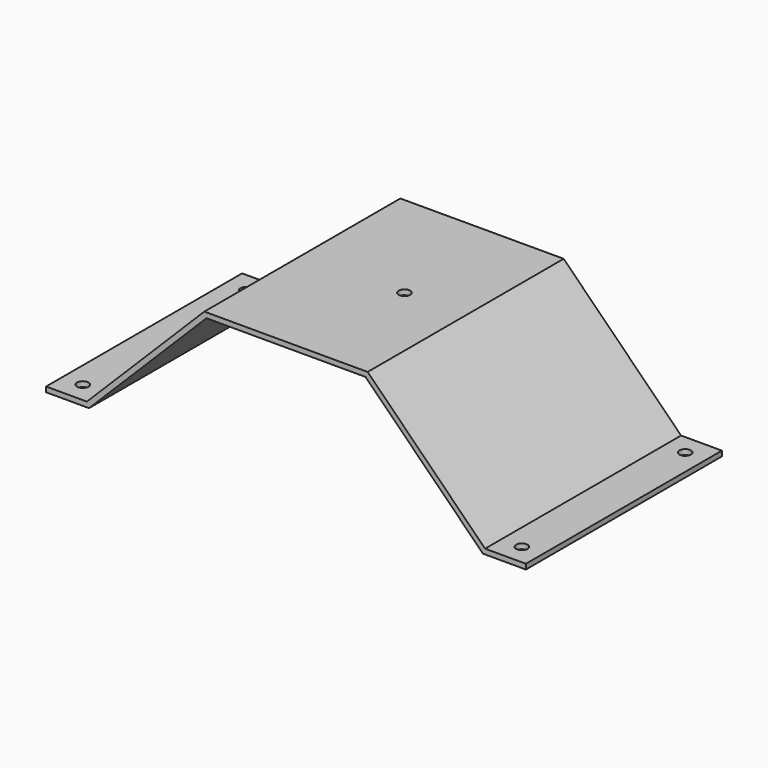
from build123d import *

# Parameters (mm, degrees)
F1_DEPTH = 152.4
F2_R     = 7.1374
F3_DEPTH = 6.351
F5_DEPTH = 152.401


with BuildPart() as f1:
    # F0 (on Front) → F1 (new body, symmetric)
    with BuildSketch(Plane.XZ):
        Polygon((-247.65, -146.05), (-298.45, -146.05), (-298.45, -152.4), (-245.019744, -152.4), (-98.969744, -6.35), (98.969744, -6.35), (245.019744, -152.4), (298.45, -152.4), (298.45, -146.05), (247.65, -146.05), (101.6, 0), (-101.6, 0), align=None)
    extrude(amount=F1_DEPTH, both=True)

    # F2 (on face) → F3 (cut, through all)
    with BuildSketch(Plane.XY.offset(-146.05)):
        with Locations((-273.05, 127)):
            Circle(F2_R)
        with Locations((-273.05, -127)):
            Circle(F2_R)
        with Locations((273.05, 127)):
            Circle(F2_R)
        with Locations((273.05, -127)):
            Circle(F2_R)
    extrude(amount=-F3_DEPTH, mode=Mode.SUBTRACT)

    # F4 (on face) → F5 (cut, through all)
    with BuildSketch(Plane.XY):
        with BuildLine():
            ThreePointArc((32.5374, 0), (25.4, 7.1374), (18.2626, 0))
            Line((18.2626, 0), (32.5374, 0))
        make_face()
        with BuildLine():
            Line((32.5374, 0), (18.2626, 0))
            ThreePointArc((18.2626, 0), (25.4, -7.1374), (32.5374, 0))
        make_face()
    extrude(amount=-F5_DEPTH, mode=Mode.SUBTRACT)


solid = f1.part
